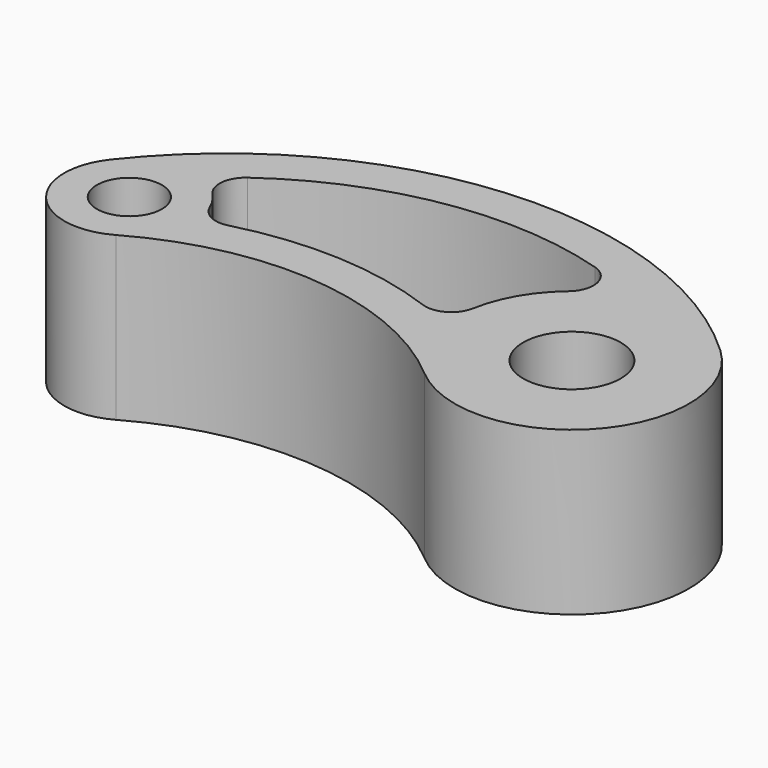
from build123d import *

# Parameters (mm, degrees)
F0_R     = 5
F0_R_2   = 7.5
F1_DEPTH = 25


with BuildPart() as f1:
    # F0 (on Top) → F1 (new body)
    with BuildSketch(Plane.XY):
        with BuildLine():
            ThreePointArc((56.302521, -13.680972), (81.43664, -11.977341), (80.252101, 13.186585))
            ThreePointArc((80.252101, 13.186585), (34.639129, 29.041183), (-7.882353, 6.15374))
            ThreePointArc((-7.882353, 6.15374), (-7.576127, -6.527043), (4.919786, -8.706073))
            ThreePointArc((4.919786, -8.706073), (31.395464, -3.092849), (56.302521, -13.680972))
        make_face()
        Circle(F0_R, mode=Mode.SUBTRACT)
        with Locations((68, 0)):
            Circle(F0_R_2, mode=Mode.SUBTRACT)
        with BuildLine():
            ThreePointArc((44.950326, 0.142182), (29.540091, 3.306499), (13.896058, 1.647439))
            ThreePointArc((13.896058, 1.647439), (11.117549, 1.916957), (9.191943, 3.938043))
            ThreePointArc((9.191943, 3.938043), (8.380408, 5.456075), (7.320562, 6.812443))
            ThreePointArc((7.320562, 6.812443), (6.267781, 9.926776), (7.904024, 12.778113))
            ThreePointArc((7.904024, 12.778113), (30.530218, 22.242438), (55.005596, 20.669565))
            ThreePointArc((55.005596, 20.669565), (57.763559, 17.645265), (56.418739, 13.779492))
            ThreePointArc((56.418739, 13.779492), (52.422533, 9.019009), (50.283693, 3.183153))
            ThreePointArc((50.283693, 3.183153), (48.328016, 0.415678), (44.950326, 0.142182))
        make_face(mode=Mode.SUBTRACT)
    extrude(amount=F1_DEPTH)


solid = f1.part
